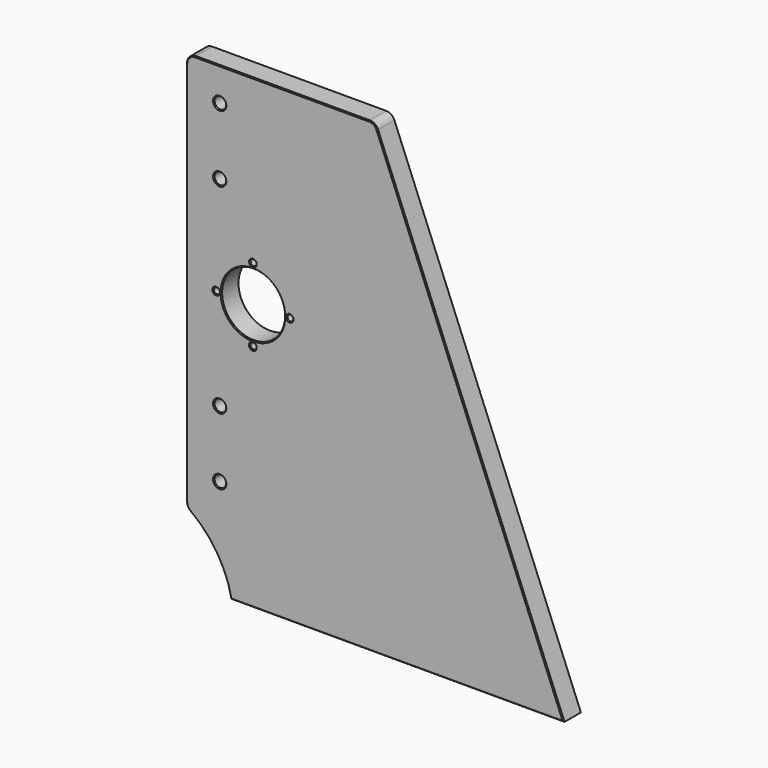
from build123d import *

# Parameters (mm, degrees)
F0_R     = 3.302
F0_R_2   = 1.7
F0_R_3   = 18
F1_DEPTH = 12.7
F2_R     = 5.08
F3_SIZE  = 0.508


with BuildPart() as f1:
    # F0 (on Front) → F1 (new body)
    with BuildSketch(Plane.XZ):
        with BuildLine():
            Line((108.426517, -114.299545), (0.476517, 152.400455))
            Line((0.476517, 152.400455), (-107.473483, 152.400455))
            Line((-107.473483, 152.400455), (-107.473483, -76.199545))
            ThreePointArc((-107.473483, -76.199545), (-90.99167, -92.728336), (-82.073483, -114.299545))
            Line((-82.073483, -114.299545), (108.426517, -114.299545))
        make_face()
        with Locations((-88.423483, -57.137189)):
            Circle(F0_R, mode=Mode.SUBTRACT)
        with Locations((-88.423483, -19.037189)):
            Circle(F0_R, mode=Mode.SUBTRACT)
        with Locations((-92.919483, 14.618093)):
            Circle(F0_R_2, mode=Mode.SUBTRACT)
        with Locations((-69.424483, 17.113093)):
            Circle(F0_R_2, mode=Mode.SUBTRACT)
        with Locations((-45.929483, 14.618093)):
            Circle(F0_R_2, mode=Mode.SUBTRACT)
        with Locations((-90.424483, 38.113093)):
            Circle(F0_R_2, mode=Mode.SUBTRACT)
        with Locations((-69.424483, 38.113093)):
            Circle(F0_R_3, mode=Mode.SUBTRACT)
        with Locations((-92.919483, 61.608093)):
            Circle(F0_R_2, mode=Mode.SUBTRACT)
        with Locations((-69.424483, 59.113093)):
            Circle(F0_R_2, mode=Mode.SUBTRACT)
        with Locations((-48.424483, 38.113093)):
            Circle(F0_R_2, mode=Mode.SUBTRACT)
        with Locations((-45.929483, 61.608093)):
            Circle(F0_R_2, mode=Mode.SUBTRACT)
        with Locations((-88.423483, 95.250455)):
            Circle(F0_R, mode=Mode.SUBTRACT)
        with Locations((-88.423483, 133.350455)):
            Circle(F0_R, mode=Mode.SUBTRACT)
        with Locations((-92.919483, 14.618093)):
            Circle(F0_R_2)
        with Locations((-45.929483, 14.618093)):
            Circle(F0_R_2)
        with Locations((-45.929483, 61.608093)):
            Circle(F0_R_2)
        with Locations((-92.919483, 61.608093)):
            Circle(F0_R_2)
    extrude(amount=F1_DEPTH)

    # F2
    f2_edges = [f1.edges().sort_by_distance(p)[0] for p in [
        (-107.473483, -6.35, 152.400455),
        (0.476517, -6.35, 152.400455),
        (-107.473483, -6.35, -76.199545),
    ]]
    fillet(f2_edges, radius=F2_R)

    # F3
    f3_edges = [f1.edges().sort_by_distance(p)[0] for p in [
        (55.093878, -12.7, 17.463445),
        (-0.108282, -12.7, 151.532864),
        (13.176517, -12.7, -114.299545),
        (-52.670567, -12.7, 152.400455),
        (-90.299941, -12.7, -93.790077),
        (-105.985585, -12.7, 150.912558),
        (-106.925335, -12.7, -75.855453),
        (-107.473483, -12.7, 36.880185),
        (-91.725483, -12.7, -57.137189),
        (-91.725483, -12.7, -19.037189),
        (-71.124483, -12.7, 17.113093),
        (-92.124483, -12.7, 38.113093),
        (-87.424483, -12.7, 38.113093),
        (-71.124483, -12.7, 59.113093),
        (-50.124483, -12.7, 38.113093),
        (-91.725483, -12.7, 95.250455),
        (-91.725483, -12.7, 133.350455),
        (55.093878, 0, 17.463445),
        (-0.108282, 0, 151.532864),
        (13.176517, 0, -114.299545),
        (-52.670567, 0, 152.400455),
        (-90.299941, 0, -93.790077),
        (-105.985585, 0, 150.912558),
        (-106.925335, 0, -75.855453),
        (-107.473483, 0, 36.880185),
        (-91.725483, 0, -57.137189),
        (-91.725483, 0, -19.037189),
        (-71.124483, 0, 17.113093),
        (-92.124483, 0, 38.113093),
        (-87.424483, 0, 38.113093),
        (-71.124483, 0, 59.113093),
        (-50.124483, 0, 38.113093),
        (-91.725483, 0, 95.250455),
        (-91.725483, 0, 133.350455),
    ]]
    chamfer(f3_edges, length=F3_SIZE)


solid = f1.part
